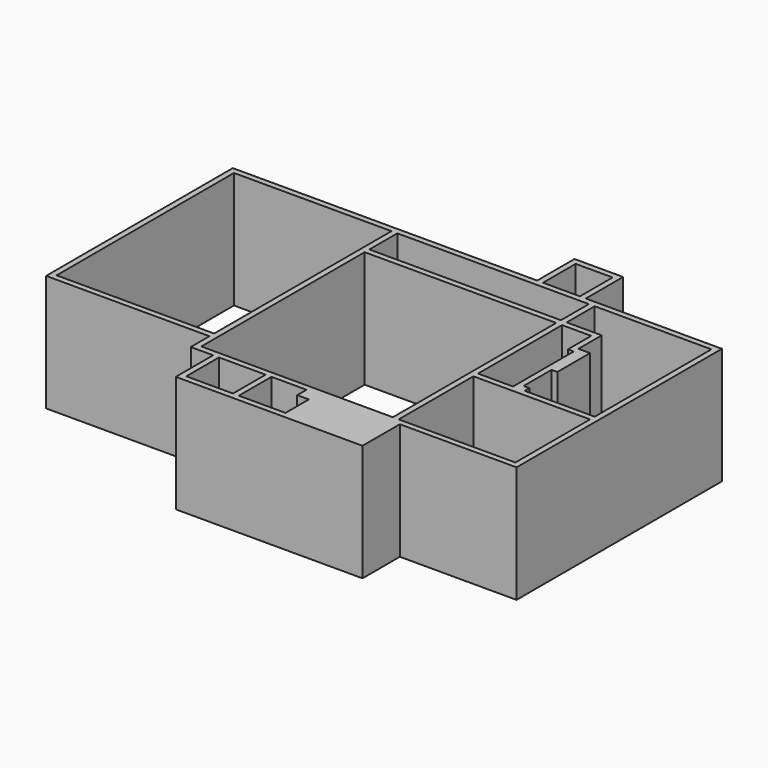
from build123d import *

# Parameters (mm, degrees)
F0_W     = 5003.8
F0_H     = 5334
F0_W_2   = 3048
F0_H_2   = 2438.4
F0_W_3   = 4114.8
F0_H_3   = 5791.2
F0_H_4   = 914.4
F0_W_4   = 965.2
F0_H_5   = 1066.8
F1_DEPTH = 3048


with BuildPart() as f1:
    # F0 (on Top) → F1 (new body)
    with BuildSketch(Plane.XY):
        Polygon((-4826, 6705.6), (-8509, 6705.6), (-12776.2, 6705.6), (-12776.2, 609.6), (-8509, 609.6), (-8509, 0), (-7924.8, 0), (-7772.4, 0), (-6553.2, 0), (-6400.8, 0), (-5486.4, 0), (-3048, 0), (0, 0), (0, 6705.6), (-3556, 6705.6), (-3556, 7924.8), (-4826, 7924.8), align=None)
        with Locations((-5854.7, 2819.4)):
            Rectangle(F0_W, F0_H, mode=Mode.SUBTRACT)
        with Locations((-1676.4, 1371.6)):
            Rectangle(F0_W_2, F0_H_2, mode=Mode.SUBTRACT)
        with Locations((-10566.4, 3657.6)):
            Rectangle(F0_W_3, F0_H_3, mode=Mode.SUBTRACT)
        Polygon((-2286, 2743.2), (-3200.4, 2743.2), (-3200.4, 5486.4), (-2438.4, 5486.4), (-2438.4, 4724.4), (-2286, 4724.4), align=None, mode=Mode.SUBTRACT)
        Polygon((-2286, 5638.8), (-3200.4, 5638.8), (-3200.4, 6553.2), (-152.4, 6553.2), (-152.4, 2743.2), (-1981.2, 2743.2), (-1981.2, 2895.6), (-2133.6, 2895.6), (-2133.6, 3810), (-1981.2, 3810), (-1981.2, 4876.8), (-2286, 4876.8), align=None, mode=Mode.SUBTRACT)
        with Locations((-5854.7, 6096)):
            Rectangle(F0_W, F0_H_4, mode=Mode.SUBTRACT)
        with Locations((-4191, 7239)):
            Rectangle(F0_W_4, F0_H_5, mode=Mode.SUBTRACT)
        Polygon((-7772.4, 0), (-7924.8, 0), (-7924.8, -1219.2), (-3048, -1219.2), (-3048, 0), (-5486.4, 0), (-5486.4, -304.8), (-5181.6, -304.8), (-5181.6, -1066.8), (-6400.8, -1066.8), (-6400.8, 0), (-6553.2, 0), (-6553.2, -1066.8), (-7772.4, -1066.8), align=None)
    extrude(amount=F1_DEPTH)


solid = f1.part
